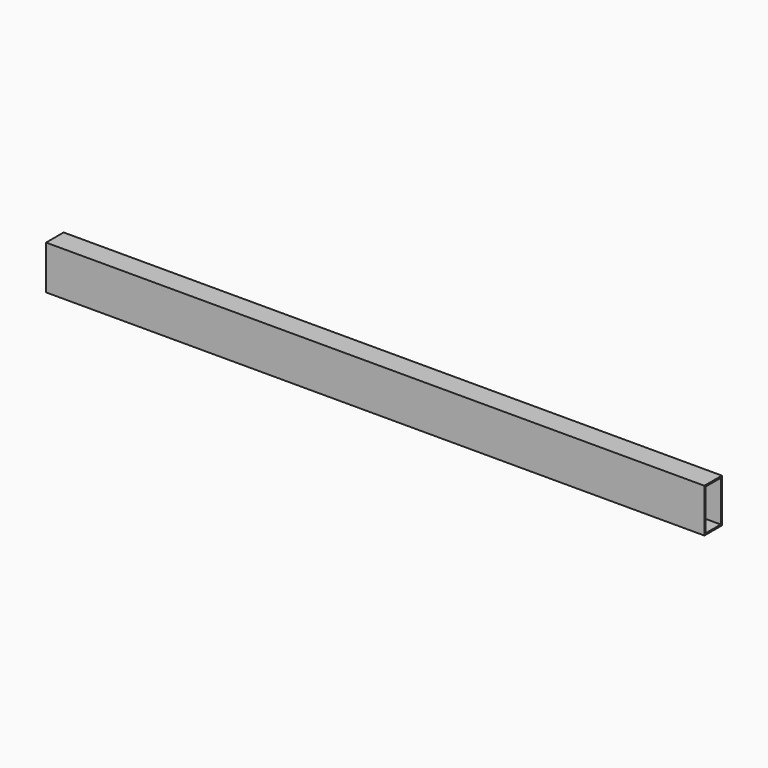
from build123d import *

# Parameters (mm, degrees)
F0_W          = 1500
F0_H          = 100
F1_DEPTH      = 50
F2_T          = -3.25
F3_DEPTH      = 25
F3_DEPTH_BACK = 25


with BuildPart() as f1:
    # F0 (on Front) → F1 (new body)
    with BuildSketch(Plane.XZ):
        with Locations((9.0955580262, -3.9434796199)):
            Rectangle(F0_W, F0_H)
    extrude(amount=F1_DEPTH)

    # F2
    f2_openings = [f1.faces().sort_by_distance(p)[0] for p in [
        (759.095558, -25, -3.94348),
    ]]
    offset(amount=F2_T, openings=f2_openings)

    # F3 (cut, two sides): a face of the model
    f3_faces = [f1.faces().sort_by_distance(p)[0] for p in [
        (-737.6544419738, -25, -3.9434796199),
    ]]
    extrude(f3_faces, amount=-F3_DEPTH, mode=Mode.SUBTRACT)
    extrude(f3_faces, amount=F3_DEPTH_BACK, mode=Mode.SUBTRACT)


solid = f1.part
